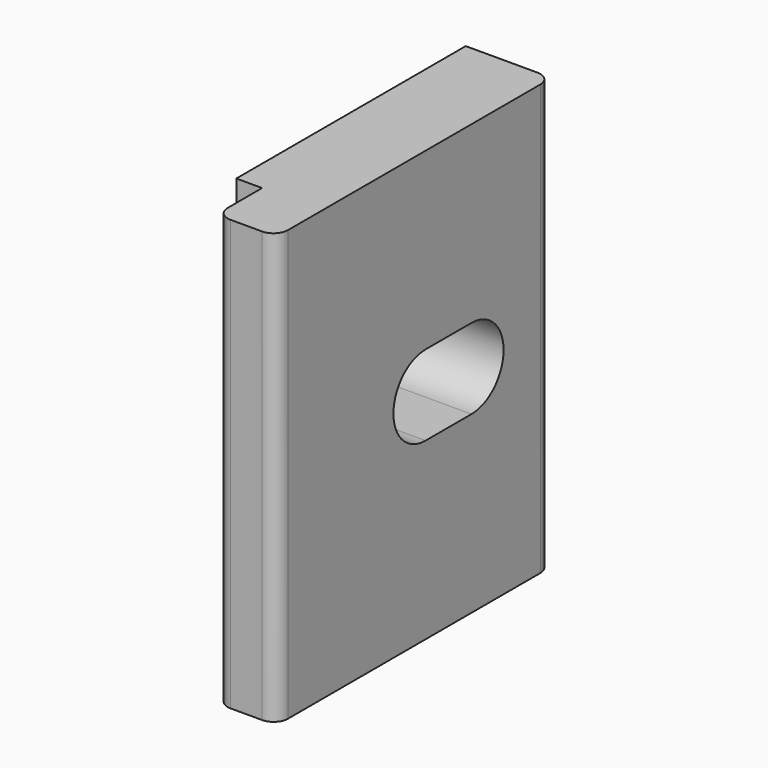
from build123d import *

# Parameters (mm, degrees)
PAD_DEPTH    = 15
POCKET_DEPTH = 3.001


with BuildPart() as part:
    # Sketch → Pad (new body)
    with BuildSketch(Plane.XY):
        with BuildLine():
            Line((0, 10), (0, 0))
            Line((0, 0), (0.9, 0))
            Line((0.9, 0), (0.9, -1.5))
            ThreePointArc((0.9, -1.5), (1.046447, -1.853553), (1.4, -2))
            Line((1.4, -2), (2.5, -2))
            ThreePointArc((2.5, -2), (2.853553, -1.853553), (3, -1.5))
            Line((3, -1.5), (3, 9.5))
            ThreePointArc((3, 9.5), (2.853553, 9.853553), (2.5, 10))
            Line((2.5, 10), (0, 10))
        make_face()
    extrude(amount=PAD_DEPTH)

    # Sketch001 → Pocket (cut, through all)
    with BuildSketch(Plane.YZ.offset(3)):
        with BuildLine():
            ThreePointArc((4.5, 8.9), (3.1, 7.5), (4.5, 6.1))
            Line((4.5, 6.1), (6.5, 6.1))
            ThreePointArc((6.5, 6.1), (7.9, 7.5), (6.5, 8.9))
            Line((4.5, 8.9), (6.5, 8.9))
        make_face()
    extrude(amount=-POCKET_DEPTH, mode=Mode.SUBTRACT)


solid = part.part
